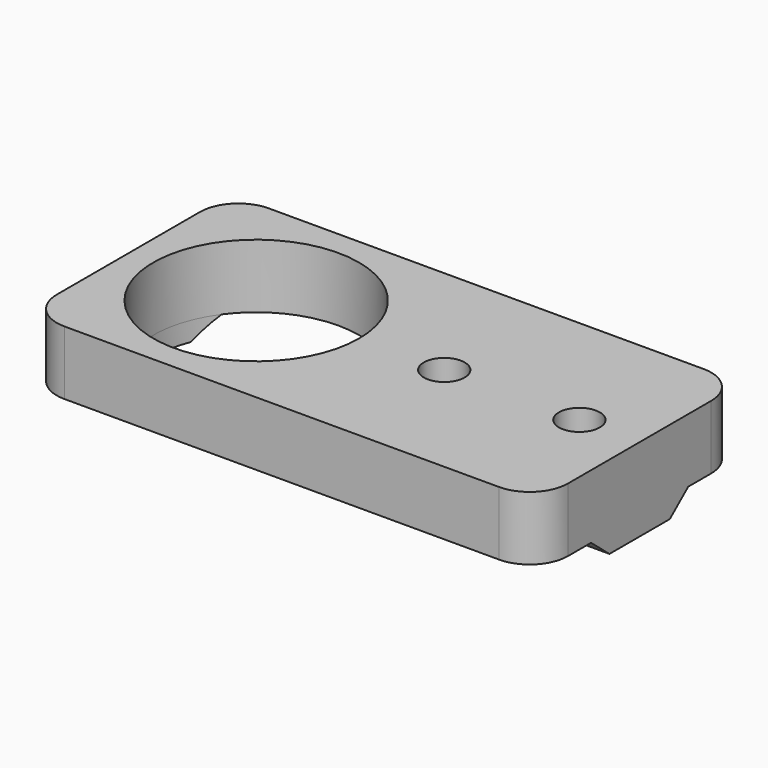
from build123d import *

# Parameters (mm, degrees)
SKETCH_R        = 8.05
PAD_DEPTH       = 5
PAD001_DEPTH    = 40
POCKET_DEPTH    = 1.501
SKETCH002_R     = 1.6
POCKET001_DEPTH = 6.501
FILLET_R        = 3


with BuildPart() as part:
    # Sketch → Pad (new body)
    with BuildSketch(Plane.XY):
        Polygon((-10, 10), (10, 10), (30, 10), (30, -10), (10, -10), (-10, -10), align=None)
        Circle(SKETCH_R, mode=Mode.SUBTRACT)
    extrude(amount=PAD_DEPTH)

    # Sketch001 (on Face3 of Pad) → Pad001 (join)
    with BuildSketch(Plane.YZ.offset(30)):
        Polygon((-4.75, 0), (4.75, 0), (2.95, -1.5), (-2.95, -1.5), align=None)
    extrude(amount=-PAD001_DEPTH)

    # Pad001 Face16 → Pocket (cut, through all)
    with BuildSketch(Plane(origin=(0, 0, 0), x_dir=(0, 1, 0), z_dir=(0, 0, 1))):
        with BuildLine():
            ThreePointArc((-4.75, -6.499231), (-2.498369, -7.652493), (0, -8.05))
            ThreePointArc((0, -8.05), (2.498369, -7.652493), (4.75, -6.499231))
            Line((4.75, -6.499231), (4.75, 6.499231))
            ThreePointArc((4.75, 6.499231), (0, 8.05), (-4.75, 6.499231))
            Line((-4.75, 6.499231), (-4.75, -6.499231))
        make_face()
    extrude(amount=-POCKET_DEPTH, mode=Mode.SUBTRACT)

    # Sketch002 (on Face18 of Pocket) → Pocket001 (cut, through all)
    with BuildSketch(Plane(origin=(0, 0, -1.5), x_dir=(1, 0, 0), z_dir=(0, 0, -1))):
        with Locations((14.714, 0)):
            Circle(SKETCH002_R)
        with Locations((25.286, 0)):
            Circle(SKETCH002_R)
    extrude(amount=-POCKET001_DEPTH, mode=Mode.SUBTRACT)

    # Fillet
    fillet_edges = [part.edges().sort_by_distance(p)[0] for p in [
        (30, -10, 2.5),
        (30, 10, 2.5),
        (-10, -10, 2.5),
        (-10, 10, 2.5),
    ]]
    fillet(fillet_edges, radius=FILLET_R)


solid = part.part
